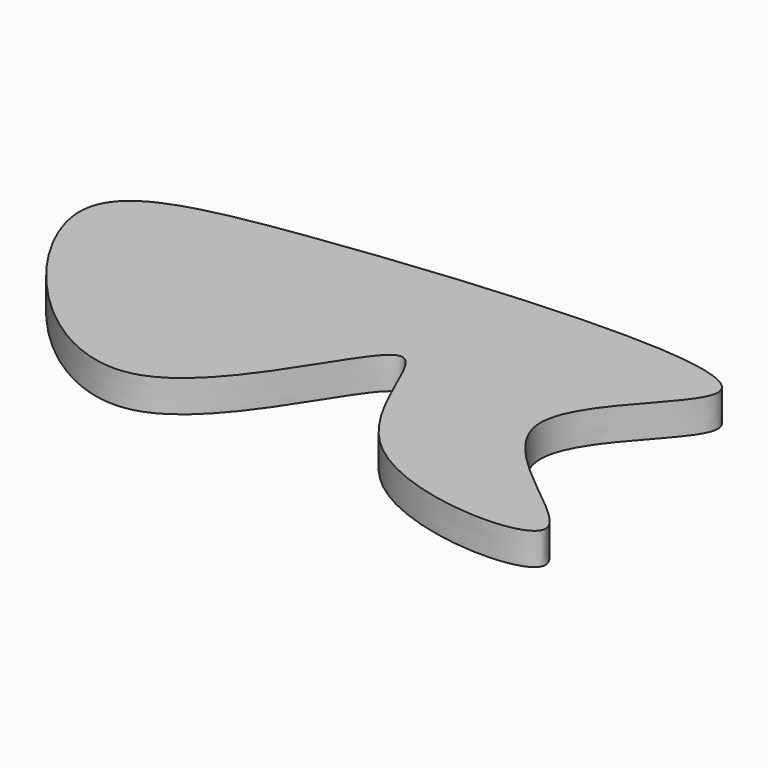
from build123d import *

# Parameters (mm, degrees)
F1_DEPTH = 5


with BuildPart() as f1:
    # F0 (on Top) → F1 (new body)
    with BuildSketch(Plane.XY):
        with BuildLine():
            add(Edge.make_bspline(
                [(-39.9326607585, 47.3115220666), (-15.1820079465, 50.8261772503), (48.2751701236, 56.0749147761), (-1.6078365702, 24.9714596772), (49.5040040577, 0.6861242528), (-4.7011869188, 1.3822824342), (-8.8660771279, 46.5719533303), (-30.6399433494, -15.0828572092), (-78.2457525242, 39.6001836848), (-56.3040847681, 44.9867385267), (-39.9326607585, 47.3115220666)],
                knots=[0, 0, 0, 0, 0.1751426457, 0.2811874251, 0.3947478681, 0.5112399982, 0.6190917344, 0.7434255579, 0.8841511561, 1, 1, 1, 1], degree=3))
        make_face()
    extrude(amount=F1_DEPTH)


solid = f1.part
